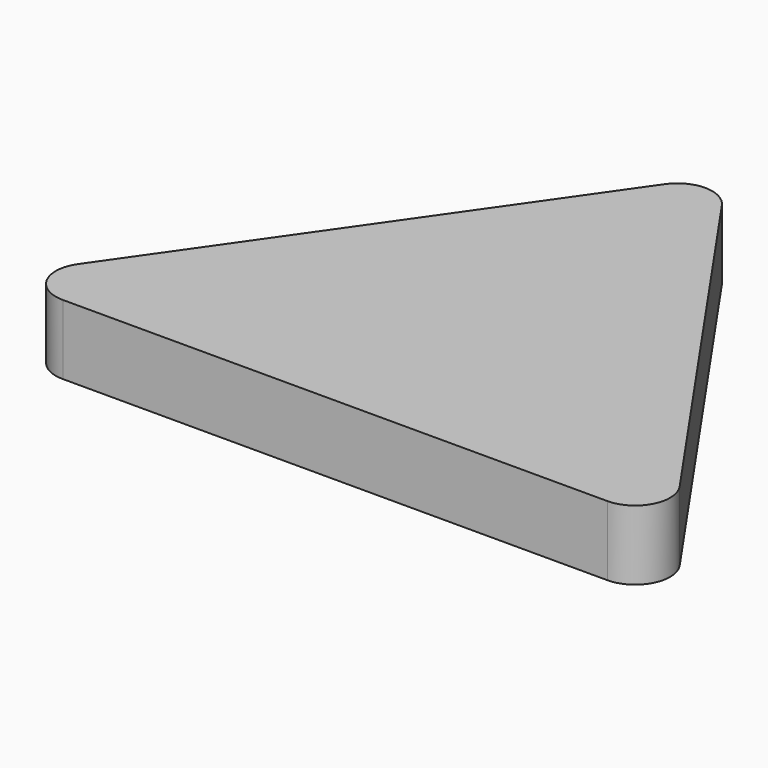
from build123d import *

# Parameters (mm, degrees)
F1_DEPTH = 4
F2_R     = 2


with BuildPart() as f1:
    # F0 (on Top) → F1 (new body)
    with BuildSketch(Plane.XY):
        Polygon((-38.920617, 0), (0, 0), (-19.38504, 28), align=None)
    extrude(amount=F1_DEPTH)

    # F2
    f2_edges = [f1.edges().sort_by_distance(p)[0] for p in [
        (-19.38504, 28, 2),
        (-38.920617, 0, 2),
        (0, 0, 2),
    ]]
    fillet(f2_edges, radius=F2_R)


solid = f1.part
